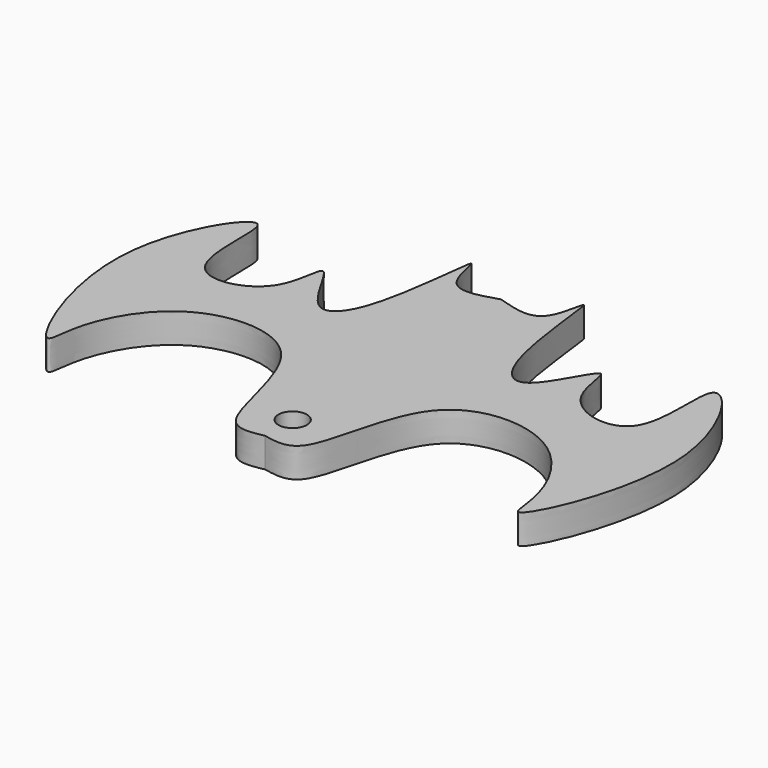
from build123d import *

# Parameters (mm, degrees)
F0_R     = 1.4224
F1_DEPTH = 2.9718


with BuildPart() as f1:
    # F0 (on Top) → F1 (new body)
    with BuildSketch(Plane.XY):
        with BuildLine():
            add(Edge.make_bspline(
                [(0, 20.9168457145), (1.7677763364, 20.3616174487), (5.1016077597, 19.314518106), (5.7378633514, 28.1716167254), (6.4199341333, 13.3702242439), (10.5877650774, 9.0206853602), (14.6359200443, 19.1162524893), (13.9187618913, 10.2626591165), (24.0188648131, 8.0638452517), (20.7321051843, 24.3481624947), (31.4727977079, 8.639438014), (23.1070054072, -9.503545093), (23.3732523257, -2.8208347073), (18.8985356085, 5.8080301755), (5.3064795625, 5.7974703029), (4.8046358656, -9.640821266), (1.2313155321, -8.9269080603), (0, -8.68090369)],
                knots=[0, 0, 0, 0, 0.0532405273, 0.1004057692, 0.1823448878, 0.2326274524, 0.2939376172, 0.3476821586, 0.4104127786, 0.4833232523, 0.5678014119, 0.667845047, 0.7094555172, 0.7867167898, 0.8662807519, 0.9539222427, 1, 1, 1, 1], degree=3))
            add(Edge.make_bspline(
                [(0, 20.9168457145), (-1.7677763364, 20.3616174487), (-5.1016077597, 19.314518106), (-5.7378633514, 28.1716167254), (-6.4199341333, 13.3702242439), (-10.5877650774, 9.0206853602), (-14.6359200443, 19.1162524893), (-13.9187618913, 10.2626591165), (-24.0188648131, 8.0638452517), (-20.7321051843, 24.3481624947), (-31.4727977079, 8.639438014), (-23.1070054072, -9.503545093), (-23.3732523257, -2.8208347073), (-18.8985356085, 5.8080301755), (-5.3064795625, 5.7974703029), (-4.8046358656, -9.640821266), (-1.2313155321, -8.9269080603), (0, -8.68090369)],
                knots=[0, 0, 0, 0, 0.0532405273, 0.1004057692, 0.1823448878, 0.2326274524, 0.2939376172, 0.3476821586, 0.4104127786, 0.4833232523, 0.5678014119, 0.667845047, 0.7094555172, 0.7867167898, 0.8662807519, 0.9539222427, 1, 1, 1, 1], degree=3))
        make_face()
        with Locations((0, -5.2085425537)):
            Circle(F0_R, mode=Mode.SUBTRACT)
    extrude(amount=F1_DEPTH)


solid = f1.part
